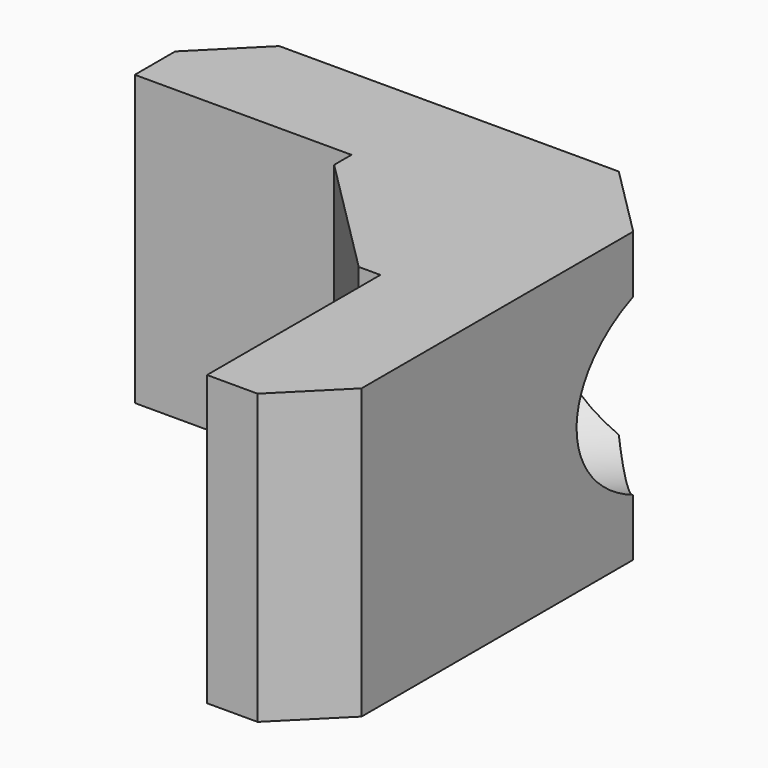
from build123d import *

# Parameters (mm, degrees)
F1_DEPTH = 12.7
F4_SIZE  = 6.35
F3_R     = 3.81
F5_DEPTH = 58.372665
F6_R     = 8.89
F7_DEPTH = 12.7
F8_SIZE  = 5.08


with BuildPart() as f1:
    # F0 (on Top) → F1 (new body, symmetric)
    with BuildSketch(Plane.XY):
        Polygon((-31.75, 9.525), (-31.75, 0), (-12.7, 0), (-12.7, -1.905), (-1.905, -12.7), (0, -12.7), (0, -31.75), (9.525, -31.75), (9.525, 9.525), align=None)
    extrude(amount=F1_DEPTH, both=True)

    # F4
    f4_edges = [f1.edges().sort_by_distance(p)[0] for p in [
        (9.525, 9.525, 0),
    ]]
    chamfer(f4_edges, length=F4_SIZE)

    # F3 (on face) → F5 (cut, through all)
    with BuildSketch(Plane(origin=(9.525, 9.525, 0), x_dir=(0.707107, -0.707107, 0), z_dir=(-0.707107, -0.707107, 0))):
        Circle(F3_R)
    extrude(amount=F5_DEPTH, mode=Mode.SUBTRACT)

    # F6 (on face) → F7 (cut)
    with BuildSketch(Plane(origin=(9.525, 9.525, 0), x_dir=(0.707107, -0.707107, 0), z_dir=(-0.707107, -0.707107, 0))):
        Circle(F6_R)
    extrude(amount=F7_DEPTH, mode=Mode.SUBTRACT)

    # F8
    f8_edges = [f1.edges().sort_by_distance(p)[0] for p in [
        (9.525, -31.75, 0),
        (-31.75, 9.525, 0),
    ]]
    chamfer(f8_edges, length=F8_SIZE)


solid = f1.part
